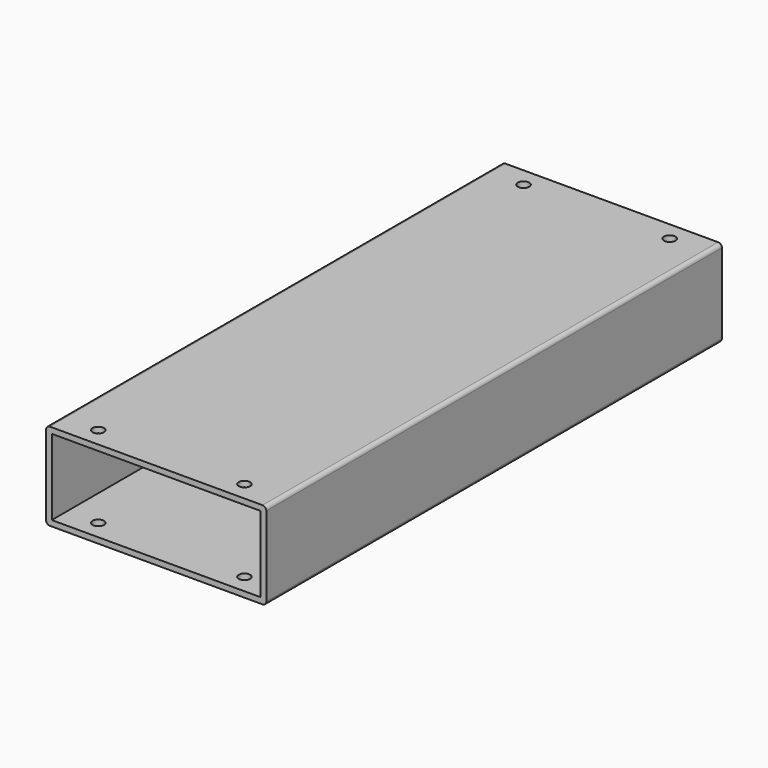
from build123d import *

# Parameters (mm, degrees)
F0_W     = 58
F0_H     = 23
F0_W_2   = 55
F0_H_2   = 20
F1_DEPTH = 150
F2_R     = 1
F3_R     = 1.5
F4_DEPTH = 15
F5_DEPTH = 15
F6_DEPTH = 15


with BuildPart() as f1:
    # F0 (on Front) → F1 (new body)
    with BuildSketch(Plane.XZ):
        Rectangle(F0_W, F0_H)
        Rectangle(F0_W_2, F0_H_2, mode=Mode.SUBTRACT)
    extrude(amount=F1_DEPTH)

    # F2
    f2_edges = [f1.edges().sort_by_distance(p)[0] for p in [
        (-29, -75, 11.5),
        (29, -75, 11.5),
        (-29, -75, -11.5),
        (29, -75, -11.5),
    ]]
    fillet(f2_edges, radius=F2_R)

    # F3 (on Top) → F4 (cut, symmetric)
    with BuildSketch(Plane.XY):
        with Locations((-19.25, -5)):
            Circle(F3_R)
    extrude(amount=F4_DEPTH, both=True, mode=Mode.SUBTRACT)

    # F3 (on Top) → F5 (cut, symmetric)
    with BuildSketch(Plane.XY):
        with Locations((19.25, -5)):
            Circle(F3_R)
    extrude(amount=F5_DEPTH, both=True, mode=Mode.SUBTRACT)

    # F3 (on Top) → F6 (cut, symmetric)
    with BuildSketch(Plane.XY):
        with Locations((19.25, -145)):
            Circle(F3_R)
        with Locations((-19.25, -145)):
            Circle(F3_R)
    extrude(amount=F6_DEPTH, both=True, mode=Mode.SUBTRACT)


solid = f1.part
